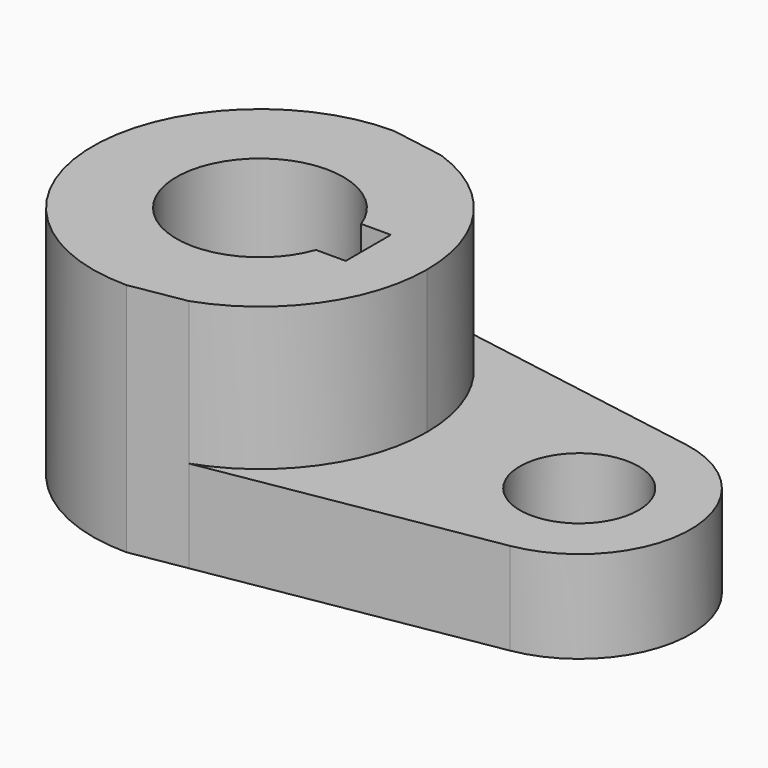
from build123d import *

# Parameters (mm, degrees)
F0_R     = 10.16
F1_DEPTH = 15.7734
F2_DEPTH = 40.2336


with BuildPart() as f1:
    # F0 (on Top) → F1 (new body)
    with BuildSketch(Plane.XY):
        with BuildLine():
            Line((57.792583, 18.78227), (9.413565, 26.979908))
            ThreePointArc((9.413565, 26.979908), (23.297245, 16.545967), (28.575, 0))
            ThreePointArc((28.575, 0), (23.297245, -16.545967), (9.413565, -26.979908))
            Line((9.413565, -26.979908), (57.792583, -18.78227))
            ThreePointArc((57.792583, -18.78227), (73.66, 0), (57.792583, 18.78227))
        make_face()
        with Locations((54.61, 0)):
            Circle(F0_R, mode=Mode.SUBTRACT)
    extrude(amount=F1_DEPTH)

    # F0 (on Top) → F2 (join)
    with BuildSketch(Plane.XY):
        with BuildLine():
            Line((9.413565, 26.979908), (0, 28.575))
            ThreePointArc((0, 28.575), (-28.575, 0), (0, -28.575))
            Line((0, -28.575), (9.413565, -26.979908))
            ThreePointArc((9.413565, -26.979908), (23.297245, -16.545967), (28.575, 0))
            ThreePointArc((28.575, 0), (23.297245, 16.545967), (9.413565, 26.979908))
        make_face()
        with BuildLine():
            ThreePointArc((13.447765, -4.826), (-14.2875, 0), (13.447765, 4.826))
            Line((13.447765, 4.826), (18.5293, 4.826))
            Line((18.5293, 4.826), (18.5293, -4.826))
            Line((18.5293, -4.826), (13.447765, -4.826))
        make_face(mode=Mode.SUBTRACT)
    extrude(amount=F2_DEPTH)


solid = f1.part
